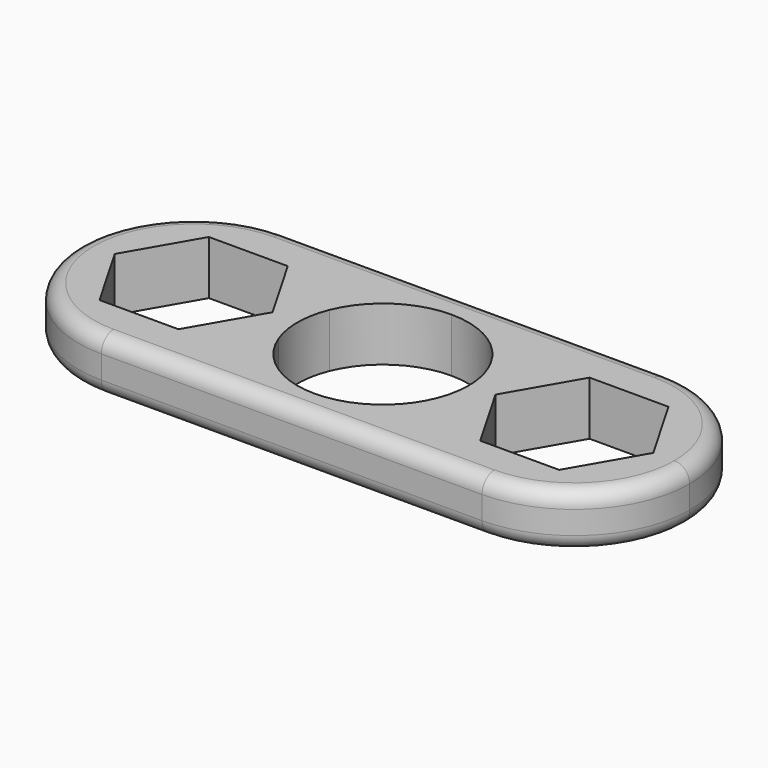
from build123d import *

# Parameters (mm, degrees)
F1_DEPTH = 7
F2_R     = 2


with BuildPart() as f1:
    # F0 (on Top) → F1 (new body)
    with BuildSketch(Plane.XY):
        with BuildLine():
            ThreePointArc((-10.359665, -4.054993), (-11.124712, 0.080009), (-10.300269, 4.20358))
            ThreePointArc((-10.300269, 4.20358), (-15.677615, 12.123372), (-24.75, 15.178003))
            Line((-24.75, 15.178003), (-24.75, 9.063003))
            Line((-24.75, 9.063003), (-19.620243, 9.063003))
            Line((-19.620243, 9.063003), (-14.490486, 0.178003))
            Line((-14.490486, 0.178003), (-19.620243, -8.706997))
            Line((-19.620243, -8.706997), (-24.75, -8.706997))
            Line((-24.75, -8.706997), (-24.75, -14.821997))
            ThreePointArc((-24.75, -14.821997), (-15.763759, -11.832304), (-10.359665, -4.054993))
        make_face()
        with BuildLine():
            Line((-24.75, 9.063003), (-24.75, 15.178003))
            ThreePointArc((-24.75, 15.178003), (-39.75, 0.178003), (-24.75, -14.821997))
            Line((-24.75, -14.821997), (-24.75, -8.706997))
            Line((-24.75, -8.706997), (-29.879757, -8.706997))
            Line((-29.879757, -8.706997), (-35.009514, 0.178003))
            Line((-35.009514, 0.178003), (-29.879757, 9.063003))
            Line((-29.879757, 9.063003), (-24.75, 9.063003))
        make_face()
        with BuildLine():
            ThreePointArc((-10.300269, 4.20358), (-6.204869, 9.233917), (0, 11.125))
            Line((0, 11.125), (0, 15.178003))
            Line((0, 15.178003), (-24.75, 15.178003))
            ThreePointArc((-24.75, 15.178003), (-15.677615, 12.123372), (-10.300269, 4.20358))
        make_face()
        with BuildLine():
            ThreePointArc((0, 11.125), (6.204869, 9.233917), (10.300269, 4.20358))
            ThreePointArc((10.300269, 4.20358), (15.677615, 12.123372), (24.75, 15.178003))
            Line((24.75, 15.178003), (0, 15.178003))
            Line((0, 15.178003), (0, 11.125))
        make_face()
        with BuildLine():
            Line((0, -14.821997), (0, -11.125))
            ThreePointArc((0, -11.125), (-6.271117, -9.189054), (-10.359665, -4.054993))
            ThreePointArc((-10.359665, -4.054993), (-15.763759, -11.832304), (-24.75, -14.821997))
            Line((-24.75, -14.821997), (0, -14.821997))
        make_face()
        with BuildLine():
            ThreePointArc((24.75, -14.821997), (15.763759, -11.832304), (10.359665, -4.054993))
            ThreePointArc((10.359665, -4.054993), (6.271117, -9.189054), (0, -11.125))
            Line((0, -11.125), (0, -14.821997))
            Line((0, -14.821997), (24.75, -14.821997))
        make_face()
        with BuildLine():
            ThreePointArc((10.300269, 4.20358), (10.91687, 2.141861), (11.125, 0))
            ThreePointArc((11.125, 0), (10.931992, -2.063293), (10.359665, -4.054993))
            ThreePointArc((10.359665, -4.054993), (15.763759, -11.832304), (24.75, -14.821997))
            Line((24.75, -14.821997), (24.75, -8.706997))
            Line((24.75, -8.706997), (19.620243, -8.706997))
            Line((19.620243, -8.706997), (14.490486, 0.178003))
            Line((14.490486, 0.178003), (19.620243, 9.063003))
            Line((19.620243, 9.063003), (24.75, 9.063003))
            Line((24.75, 9.063003), (24.75, 15.178003))
            ThreePointArc((24.75, 15.178003), (15.677615, 12.123372), (10.300269, 4.20358))
        make_face()
        with BuildLine():
            ThreePointArc((39.75, 0.178003), (35.356602, 10.784605), (24.75, 15.178003))
            Line((24.75, 15.178003), (24.75, 9.063003))
            Line((24.75, 9.063003), (29.879757, 9.063003))
            Line((29.879757, 9.063003), (35.009514, 0.178003))
            Line((35.009514, 0.178003), (29.879757, -8.706997))
            Line((29.879757, -8.706997), (24.75, -8.706997))
            Line((24.75, -8.706997), (24.75, -14.821997))
            ThreePointArc((24.75, -14.821997), (35.356602, -10.428599), (39.75, 0.178003))
        make_face()
    extrude(amount=F1_DEPTH)

    # F2
    f2_edges = [f1.edges().sort_by_distance(p)[0] for p in [
        (0, 15.178003, 7),
        (0, 15.178003, 0),
    ]]
    fillet(f2_edges, radius=F2_R)


solid = f1.part
